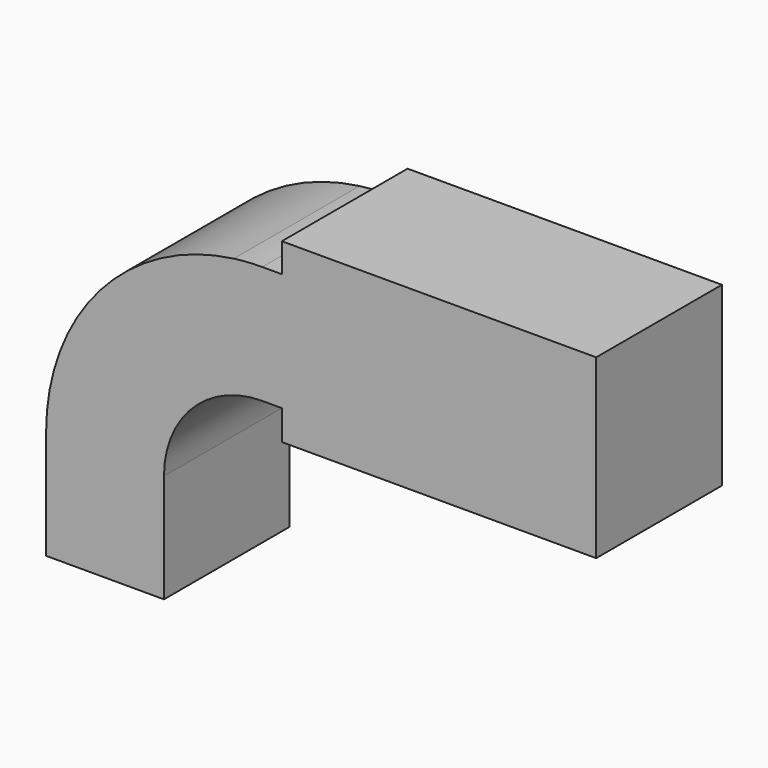
from build123d import *

# Parameters (mm, degrees)
F0_W     = 25.4
F0_H     = 4.826
F0_H_2   = 4.699
F0_H_3   = 19.05
F1_DEPTH = 12.7


with BuildPart() as f1:
    # F0 (on Front) → F1 (new body, symmetric)
    with BuildSketch(Plane.XZ):
        with BuildLine():
            ThreePointArc((57.15, 61.976), (54.849621, 61.900159), (52.559233, 61.672965))
            add(Edge.make_bspline(
                [(52.559233, 61.672965), (54.111289, 61.778813), (55.642842, 61.87906), (57.15, 61.976)],
                knots=[107.17334, 107.17334, 107.17334, 107.17334, 111.528418, 111.528418, 111.528418, 111.528418], degree=3))
        make_face()
        with Locations((73.025, 40.513)):
            Rectangle(F0_W, F0_H)
        with Locations((73.025, 64.3255)):
            Rectangle(F0_W, F0_H_2)
        Polygon((85.725, 61.976), (85.725, 42.926), (85.725, 38.1), (111.125, 38.1), (111.125, 66.675), (85.725, 66.675), align=None)
        with BuildLine():
            Line((22.225, 9.525), (41.275, 9.525))
            Line((41.275, 9.525), (41.275, 27.051))
            ThreePointArc((41.275, 27.051), (45.92468, 38.27632), (57.15, 42.926))
            Line((57.15, 42.926), (60.325, 42.926))
            Line((60.325, 42.926), (60.325, 61.976))
            Line((60.325, 61.976), (57.15, 61.976))
            add(Edge.make_bspline(
                [(52.559233, 61.672965), (54.111289, 61.778813), (55.642842, 61.87906), (57.15, 61.976)],
                knots=[107.17334, 107.17334, 107.17334, 107.17334, 111.528418, 111.528418, 111.528418, 111.528418], degree=3))
            ThreePointArc((52.559233, 61.672965), (30.88131, 50.066463), (22.225, 27.051))
            Line((22.225, 27.051), (22.225, 9.525))
        make_face()
        with Locations((73.025, 52.451)):
            Rectangle(F0_W, F0_H_3)
    extrude(amount=F1_DEPTH, both=True)


solid = f1.part
